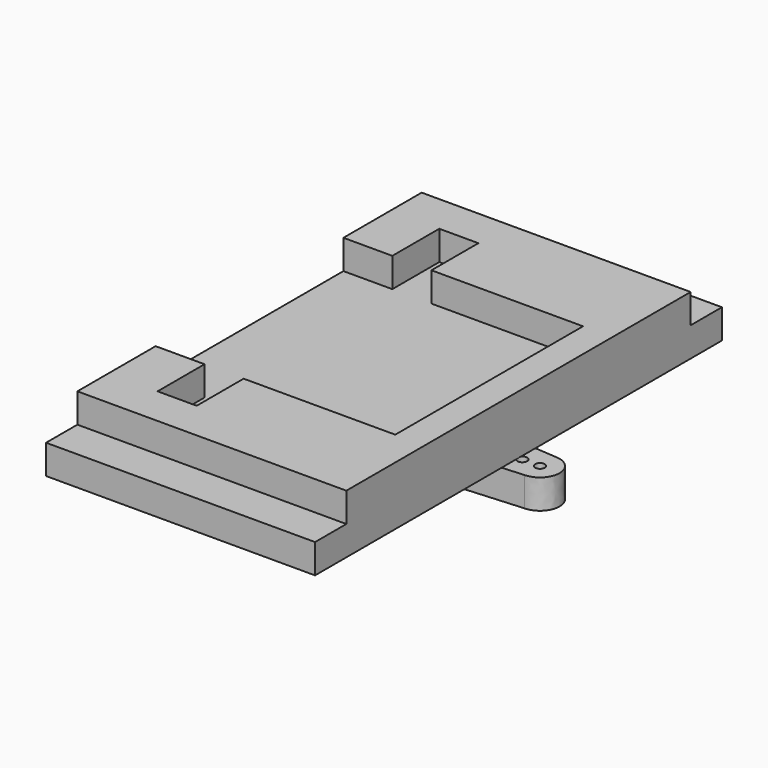
from build123d import *

# Parameters (mm, degrees)
COPYSKETCH_R = 1.94479
PAD_DEPTH    = 3
BOX001_W     = 27.5
BOX001_H     = 52
BOX001_DEPTH = 3
PAD001_DEPTH = 3


with BuildPart() as body003:
    # CopySketch → Pad (new body)
    with BuildSketch(Plane.XY):
        with BuildLine():
            add(Edge.make_bspline(
                [(-1.868585, -2.959458), (-15.2, -2)],
                knots=[-13.365897, -13.365897, 0, 0], degree=1))
            add(Edge.make_bspline(
                [(-1.868585, -2.959458), (-1.012476, -3.5), (0, -3.5)],
                knots=[5.720001, 5.720001, 5.720001, 6.283185, 6.283185, 6.283185], degree=2, weights=[1, 0.960614, 1]))
            add(Edge.make_bspline(
                [(0, -3.5), (1.012476, -3.5), (1.868585, -2.959458)],
                knots=[0, 0, 0, 0.563184, 0.563184, 0.563184], degree=2, weights=[1, 0.960614, 1]))
            add(Edge.make_bspline(
                [(1.868585, -2.959458), (15.2, -2)],
                knots=[0, 0, 13.365897, 13.365897], degree=1))
            add(Edge.make_bspline(
                [(15.2, 2), (17.2, 2), (17.2, 0), (17.2, -2), (15.2, -2)],
                knots=[3.141593, 3.141593, 3.141593, 4.712389, 4.712389, 6.283185, 6.283185, 6.283185], degree=2, weights=[1, 0.707107, 1, 0.707107, 1]))
            add(Edge.make_bspline(
                [(15.2, 2), (1.868585, 2.959458)],
                knots=[0, 0, 13.365897, 13.365897], degree=1))
            add(Edge.make_bspline(
                [(1.868585, 2.959458), (1.012476, 3.5), (0, 3.5)],
                knots=[2.578408, 2.578408, 2.578408, 3.141593, 3.141593, 3.141593], degree=2, weights=[1, 0.960614, 1]))
            add(Edge.make_bspline(
                [(0, 3.5), (-1.012476, 3.5), (-1.868585, 2.959458)],
                knots=[3.141593, 3.141593, 3.141593, 3.704777, 3.704777, 3.704777], degree=2, weights=[1, 0.960614, 1]))
            add(Edge.make_bspline(
                [(-15.2, 2), (-1.868585, 2.959458)],
                knots=[0, 0, 13.365897, 13.365897], degree=1))
            add(Edge.make_bspline(
                [(-15.2, -2), (-17.2, -2), (-17.2, 0), (-17.2, 2), (-15.2, 2)],
                knots=[3.141593, 3.141593, 3.141593, 4.712389, 4.712389, 6.283185, 6.283185, 6.283185], degree=2, weights=[1, 0.707107, 1, 0.707107, 1]))
        make_face()
        with BuildLine():
            add(Edge.make_bspline(
                [(-15.2, -0.5), (-15.7, -0.5), (-15.7, 0), (-15.7, 0.5), (-15.2, 0.5)],
                knots=[3.141593, 3.141593, 3.141593, 4.712389, 4.712389, 6.283185, 6.283185, 6.283185], degree=2, weights=[1, 0.707107, 1, 0.707107, 1]))
            add(Edge.make_bspline(
                [(-15.2, 0.5), (-14.7, 0.5), (-14.7, 0), (-14.7, -0.5), (-15.2, -0.5)],
                knots=[0, 0, 0, 1.570796, 1.570796, 3.141593, 3.141593, 3.141593], degree=2, weights=[1, 0.707107, 1, 0.707107, 1]))
        make_face(mode=Mode.SUBTRACT)
        with BuildLine():
            add(Edge.make_bspline(
                [(15.2, -0.5), (14.7, -0.5), (14.7, 0), (14.7, 0.5), (15.2, 0.5)],
                knots=[3.141593, 3.141593, 3.141593, 4.712389, 4.712389, 6.283185, 6.283185, 6.283185], degree=2, weights=[1, 0.707107, 1, 0.707107, 1]))
            add(Edge.make_bspline(
                [(15.2, 0.5), (15.7, 0.5), (15.7, 0), (15.7, -0.5), (15.2, -0.5)],
                knots=[0, 0, 0, 1.570796, 1.570796, 3.141593, 3.141593, 3.141593], degree=2, weights=[1, 0.707107, 1, 0.707107, 1]))
        make_face(mode=Mode.SUBTRACT)
        with BuildLine():
            add(Edge.make_bspline(
                [(-13.4, -0.5), (-13.9, -0.5), (-13.9, 0), (-13.9, 0.5), (-13.4, 0.5)],
                knots=[3.141593, 3.141593, 3.141593, 4.712389, 4.712389, 6.283185, 6.283185, 6.283185], degree=2, weights=[1, 0.707107, 1, 0.707107, 1]))
            add(Edge.make_bspline(
                [(-13.4, 0.5), (-12.9, 0.5), (-12.9, 0), (-12.9, -0.5), (-13.4, -0.5)],
                knots=[0, 0, 0, 1.570796, 1.570796, 3.141593, 3.141593, 3.141593], degree=2, weights=[1, 0.707107, 1, 0.707107, 1]))
        make_face(mode=Mode.SUBTRACT)
        with BuildLine():
            add(Edge.make_bspline(
                [(-11.6, -0.5), (-12.1, -0.5), (-12.1, 0), (-12.1, 0.5), (-11.6, 0.5)],
                knots=[3.141593, 3.141593, 3.141593, 4.712389, 4.712389, 6.283185, 6.283185, 6.283185], degree=2, weights=[1, 0.707107, 1, 0.707107, 1]))
            add(Edge.make_bspline(
                [(-11.6, 0.5), (-11.1, 0.5), (-11.1, 0), (-11.1, -0.5), (-11.6, -0.5)],
                knots=[0, 0, 0, 1.570796, 1.570796, 3.141593, 3.141593, 3.141593], degree=2, weights=[1, 0.707107, 1, 0.707107, 1]))
        make_face(mode=Mode.SUBTRACT)
        with BuildLine():
            add(Edge.make_bspline(
                [(-9.8, -0.5), (-10.3, -0.5), (-10.3, 0), (-10.3, 0.5), (-9.8, 0.5)],
                knots=[3.141593, 3.141593, 3.141593, 4.712389, 4.712389, 6.283185, 6.283185, 6.283185], degree=2, weights=[1, 0.707107, 1, 0.707107, 1]))
            add(Edge.make_bspline(
                [(-9.8, 0.5), (-9.3, 0.5), (-9.3, 0), (-9.3, -0.5), (-9.8, -0.5)],
                knots=[0, 0, 0, 1.570796, 1.570796, 3.141593, 3.141593, 3.141593], degree=2, weights=[1, 0.707107, 1, 0.707107, 1]))
        make_face(mode=Mode.SUBTRACT)
        with BuildLine():
            add(Edge.make_bspline(
                [(-8, -0.5), (-8.5, -0.5), (-8.5, 0), (-8.5, 0.5), (-8, 0.5)],
                knots=[3.141593, 3.141593, 3.141593, 4.712389, 4.712389, 6.283185, 6.283185, 6.283185], degree=2, weights=[1, 0.707107, 1, 0.707107, 1]))
            add(Edge.make_bspline(
                [(-8, 0.5), (-7.5, 0.5), (-7.5, 0), (-7.5, -0.5), (-8, -0.5)],
                knots=[0, 0, 0, 1.570796, 1.570796, 3.141593, 3.141593, 3.141593], degree=2, weights=[1, 0.707107, 1, 0.707107, 1]))
        make_face(mode=Mode.SUBTRACT)
        with BuildLine():
            add(Edge.make_bspline(
                [(-6.2, -0.5), (-6.7, -0.5), (-6.7, 0), (-6.7, 0.5), (-6.2, 0.5)],
                knots=[3.141593, 3.141593, 3.141593, 4.712389, 4.712389, 6.283185, 6.283185, 6.283185], degree=2, weights=[1, 0.707107, 1, 0.707107, 1]))
            add(Edge.make_bspline(
                [(-6.2, 0.5), (-5.7, 0.5), (-5.7, 0), (-5.7, -0.5), (-6.2, -0.5)],
                knots=[0, 0, 0, 1.570796, 1.570796, 3.141593, 3.141593, 3.141593], degree=2, weights=[1, 0.707107, 1, 0.707107, 1]))
        make_face(mode=Mode.SUBTRACT)
        with BuildLine():
            add(Edge.make_bspline(
                [(-4.4, -0.5), (-4.9, -0.5), (-4.9, 0), (-4.9, 0.5), (-4.4, 0.5)],
                knots=[3.141593, 3.141593, 3.141593, 4.712389, 4.712389, 6.283185, 6.283185, 6.283185], degree=2, weights=[1, 0.707107, 1, 0.707107, 1]))
            add(Edge.make_bspline(
                [(-4.4, 0.5), (-3.9, 0.5), (-3.9, 0), (-3.9, -0.5), (-4.4, -0.5)],
                knots=[0, 0, 0, 1.570796, 1.570796, 3.141593, 3.141593, 3.141593], degree=2, weights=[1, 0.707107, 1, 0.707107, 1]))
        make_face(mode=Mode.SUBTRACT)
        with BuildLine():
            add(Edge.make_bspline(
                [(13.4, -0.5), (12.9, -0.5), (12.9, 0), (12.9, 0.5), (13.4, 0.5)],
                knots=[3.141593, 3.141593, 3.141593, 4.712389, 4.712389, 6.283185, 6.283185, 6.283185], degree=2, weights=[1, 0.707107, 1, 0.707107, 1]))
            add(Edge.make_bspline(
                [(13.4, 0.5), (13.9, 0.5), (13.9, 0), (13.9, -0.5), (13.4, -0.5)],
                knots=[0, 0, 0, 1.570796, 1.570796, 3.141593, 3.141593, 3.141593], degree=2, weights=[1, 0.707107, 1, 0.707107, 1]))
        make_face(mode=Mode.SUBTRACT)
        with BuildLine():
            add(Edge.make_bspline(
                [(11.6, -0.5), (11.1, -0.5), (11.1, 0), (11.1, 0.5), (11.6, 0.5)],
                knots=[3.141593, 3.141593, 3.141593, 4.712389, 4.712389, 6.283185, 6.283185, 6.283185], degree=2, weights=[1, 0.707107, 1, 0.707107, 1]))
            add(Edge.make_bspline(
                [(11.6, 0.5), (12.1, 0.5), (12.1, 0), (12.1, -0.5), (11.6, -0.5)],
                knots=[0, 0, 0, 1.570796, 1.570796, 3.141593, 3.141593, 3.141593], degree=2, weights=[1, 0.707107, 1, 0.707107, 1]))
        make_face(mode=Mode.SUBTRACT)
        with BuildLine():
            add(Edge.make_bspline(
                [(9.8, -0.5), (9.3, -0.5), (9.3, 0), (9.3, 0.5), (9.8, 0.5)],
                knots=[3.141593, 3.141593, 3.141593, 4.712389, 4.712389, 6.283185, 6.283185, 6.283185], degree=2, weights=[1, 0.707107, 1, 0.707107, 1]))
            add(Edge.make_bspline(
                [(9.8, 0.5), (10.3, 0.5), (10.3, 0), (10.3, -0.5), (9.8, -0.5)],
                knots=[0, 0, 0, 1.570796, 1.570796, 3.141593, 3.141593, 3.141593], degree=2, weights=[1, 0.707107, 1, 0.707107, 1]))
        make_face(mode=Mode.SUBTRACT)
        with BuildLine():
            add(Edge.make_bspline(
                [(8, -0.5), (7.5, -0.5), (7.5, 0), (7.5, 0.5), (8, 0.5)],
                knots=[3.141593, 3.141593, 3.141593, 4.712389, 4.712389, 6.283185, 6.283185, 6.283185], degree=2, weights=[1, 0.707107, 1, 0.707107, 1]))
            add(Edge.make_bspline(
                [(8, 0.5), (8.5, 0.5), (8.5, 0), (8.5, -0.5), (8, -0.5)],
                knots=[0, 0, 0, 1.570796, 1.570796, 3.141593, 3.141593, 3.141593], degree=2, weights=[1, 0.707107, 1, 0.707107, 1]))
        make_face(mode=Mode.SUBTRACT)
        with BuildLine():
            add(Edge.make_bspline(
                [(6.2, -0.5), (5.7, -0.5), (5.7, 0), (5.7, 0.5), (6.2, 0.5)],
                knots=[3.141593, 3.141593, 3.141593, 4.712389, 4.712389, 6.283185, 6.283185, 6.283185], degree=2, weights=[1, 0.707107, 1, 0.707107, 1]))
            add(Edge.make_bspline(
                [(6.2, 0.5), (6.7, 0.5), (6.7, 0), (6.7, -0.5), (6.2, -0.5)],
                knots=[0, 0, 0, 1.570796, 1.570796, 3.141593, 3.141593, 3.141593], degree=2, weights=[1, 0.707107, 1, 0.707107, 1]))
        make_face(mode=Mode.SUBTRACT)
        with BuildLine():
            add(Edge.make_bspline(
                [(4.4, -0.5), (3.9, -0.5), (3.9, 0), (3.9, 0.5), (4.4, 0.5)],
                knots=[3.141593, 3.141593, 3.141593, 4.712389, 4.712389, 6.283185, 6.283185, 6.283185], degree=2, weights=[1, 0.707107, 1, 0.707107, 1]))
            add(Edge.make_bspline(
                [(4.4, 0.5), (4.9, 0.5), (4.9, 0), (4.9, -0.5), (4.4, -0.5)],
                knots=[0, 0, 0, 1.570796, 1.570796, 3.141593, 3.141593, 3.141593], degree=2, weights=[1, 0.707107, 1, 0.707107, 1]))
        make_face(mode=Mode.SUBTRACT)
        Circle(COPYSKETCH_R, mode=Mode.SUBTRACT)
    extrude(amount=PAD_DEPTH)


with BuildPart() as body003_1:
    # Body003 placement: moved
    add(body003.part.moved(Location((0, 0, -6))))


with BuildPart() as cube001:
    # Box001 → Box001 (new body)
    with BuildSketch(Plane(origin=(-14.5, -26, -3), x_dir=(1, 0, 0), z_dir=(0, 0, 1))):
        with Locations((13.75, 26)):
            Rectangle(BOX001_W, BOX001_H)
    extrude(amount=BOX001_DEPTH)


with BuildPart() as fusion001:
    # Sketch001 → Pad001 (new body)
    with BuildSketch(Plane.XY):
        Polygon((10, 12), (10, -12), (-5.5, -12), (-5.5, -18), (-9.5, -18), (-9.5, -12), (-14.5, -12), (-14.5, -22), (13, -22), (13, 22), (-14.5, 22), (-14.5, 12), (-9.5, 12), (-9.5, 18), (-5.5, 18), (-5.5, 12), align=None)
    extrude(amount=PAD001_DEPTH)

    # Fusion: union Cube001
    add(cube001.part)

    # Fusion001: union Body003
    add(body003_1.part)


solid = fusion001.part
